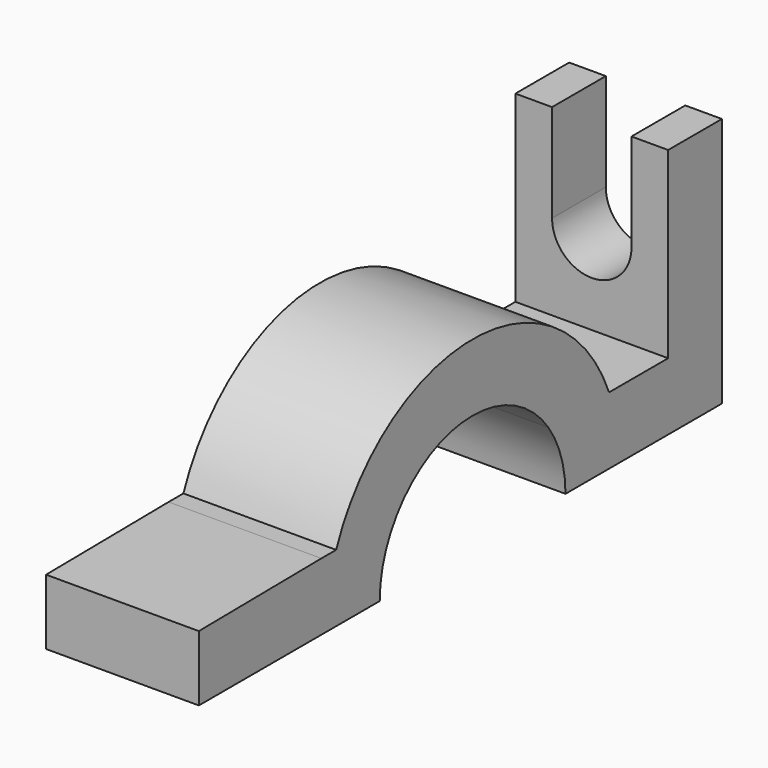
from build123d import *

# Parameters (mm, degrees)
F0_W     = 11
F0_H     = 30
F1_DEPTH = 12.5
F3_DEPTH = 12.5


with BuildPart() as f1:
    # F0 (on Right) → F1 (new body, symmetric)
    with BuildSketch(Plane.YZ):
        with BuildLine():
            ThreePointArc((-15.4919333848, 11), (0, 19), (15.4919333848, 11))
            Line((15.4919333848, 11), (27.9105714739, 11))
            ThreePointArc((27.9105714739, 11), (0, 30), (-27.9105714739, 11))
            Line((-27.9105714739, 11), (-15.4919333848, 11))
        make_face()
        with BuildLine():
            Line((-30, 0), (-19, 0))
            ThreePointArc((-19, 0), (-18.1017503893, 5.7729223833), (-15.4919333848, 11))
            Line((-15.4919333848, 11), (-27.9105714739, 11))
            ThreePointArc((-27.9105714739, 11), (-29.4730143031, 5.5983415304), (-30, 0))
        make_face()
        with BuildLine():
            ThreePointArc((15.4919333848, 11), (18.1017503893, 5.7729223833), (19, 0))
            Line((19, 0), (25.9447301083, 0))
            Line((25.9447301083, 0), (30, 0))
            ThreePointArc((30, 0), (29.4730143031, 5.5983415304), (27.9105714739, 11))
            Line((27.9105714739, 11), (15.4919333848, 11))
        make_face()
        with BuildLine():
            Line((40, 11), (27.9105714739, 11))
            ThreePointArc((27.9105714739, 11), (29.4730143031, 5.5983415304), (30, 0))
            Line((30, 0), (51, 0))
            Line((51, 0), (51, 11))
            Line((51, 11), (40, 11))
        make_face()
        with BuildLine():
            Line((-30.9447301083, 0), (-30, 0))
            ThreePointArc((-30, 0), (-29.4730143031, 5.5983415304), (-27.9105714739, 11))
            Line((-27.9105714739, 11), (-30.9447301083, 11))
            Line((-30.9447301083, 11), (-30.9447301083, 0))
        make_face()
        with Locations((45.5, 26)):
            Rectangle(F0_W, F0_H)
        Polygon((-56, 0), (-30.9447301083, 0), (-30.9447301083, 11), (-56, 10.7130073011), align=None)
    extrude(amount=F1_DEPTH, both=True)

    # F2 (on face) → F3 (cut, symmetric)
    with BuildSketch(Plane(origin=(0, 51, 0), x_dir=(-1, 0, 0), z_dir=(0, 1, 0))):
        with BuildLine():
            ThreePointArc((-6.5, 25), (0, 31.5), (6.5, 25))
            Line((6.5, 25), (6.5, 41))
            Line((6.5, 41), (-6.5, 41))
            Line((-6.5, 41), (-6.5, 25))
        make_face()
        with BuildLine():
            ThreePointArc((-6.5, 25), (0, 18.5), (6.5, 25))
            ThreePointArc((6.5, 25), (0, 31.5), (-6.5, 25))
        make_face()
    extrude(amount=F3_DEPTH, both=True, mode=Mode.SUBTRACT)


solid = f1.part
